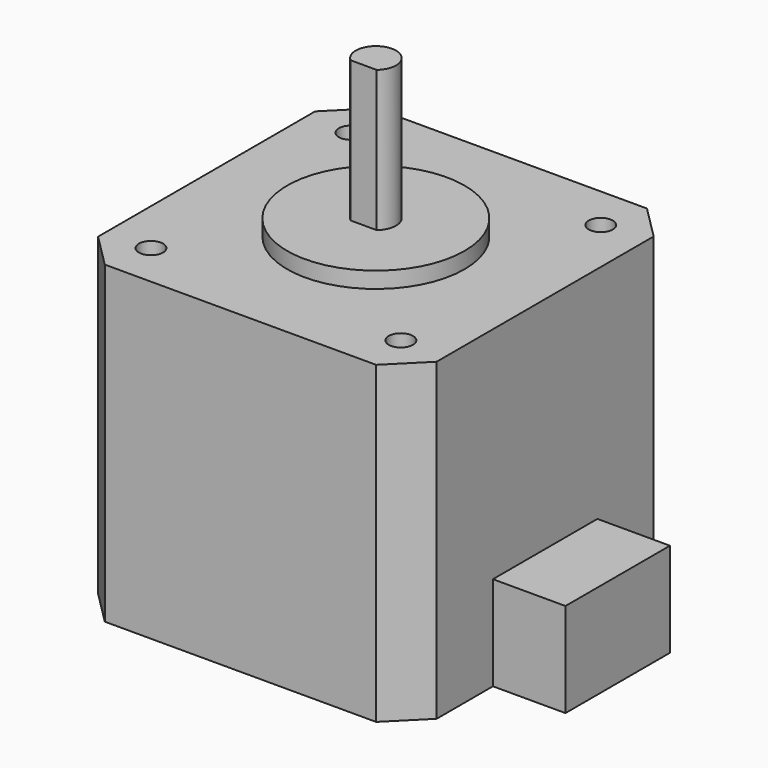
from build123d import *

# Parameters (mm, degrees)
F1_DEPTH = 39
F2_R     = 11
F3_DEPTH = 2
F5_DEPTH = 17.5
F6_W     = 16.2
F6_H     = 11.7
F7_DEPTH = 9
F8_R     = 1.5
F9_DEPTH = 5.6


with BuildPart() as f1:
    # F0 (on Top) → F1 (new body)
    with BuildSketch(Plane.XY):
        Polygon((-4.169787, 4.169787), (0, 0), (33.660426, 0), (37.830213, 4.169787), (37.830213, 37.830213), (33.660426, 42), (0, 42), (-4.169787, 37.830213), align=None)
    extrude(amount=F1_DEPTH)

    # F2 (on face) → F3 (join)
    with BuildSketch(Plane.XY.offset(39)):
        with Locations((16.830213, 21)):
            Circle(F2_R)
    extrude(amount=F3_DEPTH)

    # F4 (on face) → F5 (join)
    with BuildSketch(Plane.XY.offset(41)):
        with BuildLine():
            Line((15.205405, 19.1), (18.45502, 19.1))
            ThreePointArc((18.45502, 19.1), (16.830213, 23.5), (15.205405, 19.1))
        make_face()
    extrude(amount=F5_DEPTH)

    # F6 (on face) → F7 (join)
    with BuildSketch(Plane.YZ.offset(37.830213)):
        with Locations((21, 5.85)):
            Rectangle(F6_W, F6_H)
    extrude(amount=F7_DEPTH)

    # F8 (on face) → F9 (cut)
    with BuildSketch(Plane.XY.offset(39)):
        with Locations((1.330213, 36.5)):
            Circle(F8_R)
        with Locations((32.330213, 36.5)):
            Circle(F8_R)
        with Locations((32.330213, 5.5)):
            Circle(F8_R)
        with Locations((1.330213, 5.5)):
            Circle(F8_R)
    extrude(amount=-F9_DEPTH, mode=Mode.SUBTRACT)


solid = f1.part
